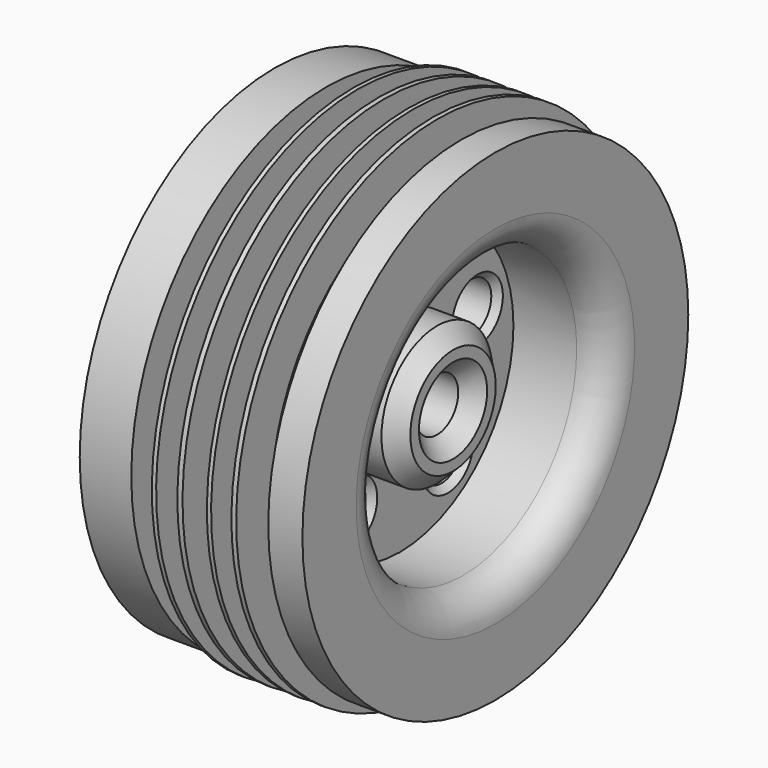
from build123d import *

# Parameters (mm, degrees)
F2_R     = 7.848918
F3_DEPTH = 25
F4_R     = 10
F5_SIZE  = 5
F6_SIZE  = 5
F7_SIZE  = 2


with BuildPart() as f1:
    # F0 (on Front) → F1 (revolve)
    with BuildSketch(Plane.XZ):
        Polygon((-16.244069, 62.022675), (-22.966566, 62.022675), (-22.966566, 75.819135), (-39.015342, 75.819135), (-39.015342, 62.022675), (-39.015342, 44.167664), (-18.230908, 44.167664), (-18.230908, 21.613961), (-33.250585, 21.613961), (-33.250585, 8.26969), (16.53938, 8.26969), (16.53938, 21.613961), (0, 21.613961), (0, 44.167664), (29.707231, 44.167664), (29.707231, 62.022675), (29.707231, 75.067952), (19.069998, 75.067952), (19.069998, 62.022675), (12.920965, 62.022675), (12.920965, 64.699598), (11.734917, 64.699598), (11.734917, 78.378163), (10.245941, 78.378163), (10.245941, 64.699598), (8.93096, 64.699598), (8.93096, 62.022675), (5.415956, 62.022675), (5.415956, 64.699598), (3.918254, 64.699598), (3.918254, 78.378163), (2.611384, 78.378163), (2.611384, 64.699598), (0, 64.699598), (0, 62.022675), (-3.609054, 62.022675), (-3.609054, 64.699598), (-4.979474, 64.699598), (-4.979474, 78.378163), (-6.571971, 78.378163), (-6.571971, 64.699598), (-9.30906, 64.699598), (-9.30906, 62.022675), (-11.874064, 62.022675), (-11.874064, 64.699598), (-13.187167, 64.699598), (-13.187167, 78.378163), (-14.52281, 78.378163), (-14.52281, 64.699598), (-16.244069, 64.699598), align=None)
    revolve(axis=Axis((13.626195, 0, 0), (1, 0, 0)))

    # F2 (on face) → F3 (cut)
    with BuildSketch(Plane.YZ):
        with Locations((0, 31.763129)):
            Circle(F2_R)
        with Locations((30.208531, 9.815347)):
            Circle(F2_R)
        with Locations((18.669899, -25.696911)):
            Circle(F2_R)
        with Locations((-18.669899, -25.696911)):
            Circle(F2_R)
        with Locations((-30.208531, 9.815347)):
            Circle(F2_R)
    extrude(amount=-F3_DEPTH, mode=Mode.SUBTRACT)

    # F4
    f4_edges = [f1.edges().sort_by_distance(p)[0] for p in [
        (-39.015342, 0, -44.167664),
        (29.707231, 0, -44.167664),
    ]]
    fillet(f4_edges, radius=F4_R)

    # F5
    f5_edges = [f1.edges().sort_by_distance(p)[0] for p in [
        (16.53938, 0, -21.613961),
        (-33.250585, 0, -21.613961),
    ]]
    chamfer(f5_edges, length=F5_SIZE)

    # F6
    f6_edges = [f1.edges().sort_by_distance(p)[0] for p in [
        (16.53938, 0, -8.26969),
        (-33.250585, 0, -8.26969),
    ]]
    chamfer(f6_edges, length=F6_SIZE)

    # F7
    f7_edges = [f1.edges().sort_by_distance(p)[0] for p in [
        (0, -7.848918, 31.763129),
        (0, 22.359612, 9.815347),
        (0, 10.82098, -25.696911),
        (0, -26.518817, -25.696911),
        (0, -38.057449, 9.815347),
        (-18.230908, -7.848918, 31.763129),
        (-18.230908, -38.057449, 9.815347),
        (-18.230908, -26.518817, -25.696911),
        (-18.230908, 10.82098, -25.696911),
        (-18.230908, 22.359612, 9.815347),
    ]]
    chamfer(f7_edges, length=F7_SIZE)


solid = f1.part
